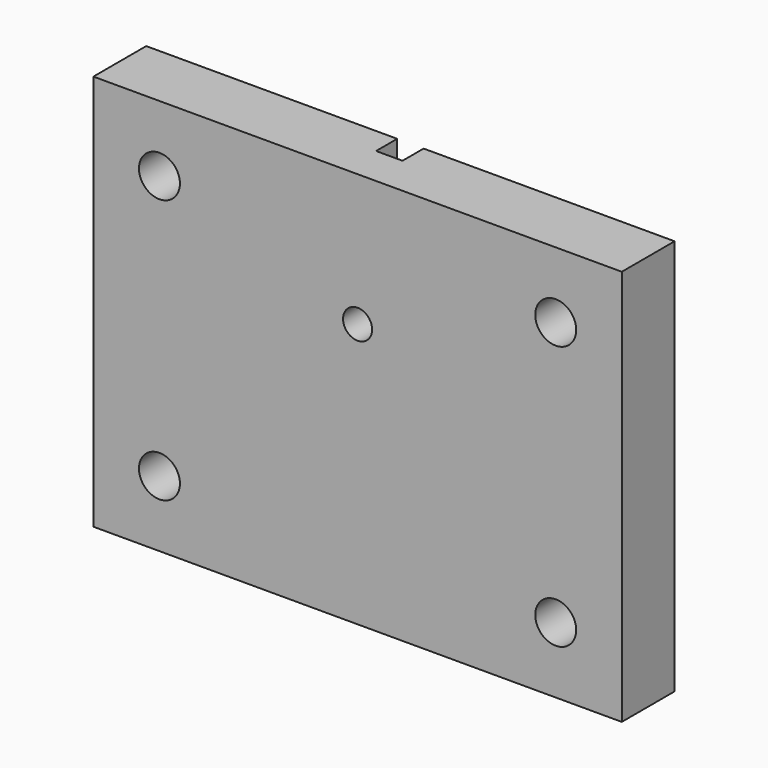
from build123d import *

# Parameters (mm, degrees)
F0_R     = 1.55
F0_R_2   = 1.1
F1_DEPTH = 5
F2_DEPTH = 2


with BuildPart() as f1:
    # F0 (on Front) → F1 (new body)
    with BuildSketch(Plane.XZ):
        with BuildLine():
            Line((-20, -15), (20, -15))
            Line((20, -15), (20, 15))
            Line((20, 15), (1, 15))
            Line((1, 15), (1, 7.4))
            ThreePointArc((1, 7.4), (0, 2.4), (-1, 7.4))
            Line((-1, 7.4), (-1, 15))
            Line((-1, 15), (-20, 15))
            Line((-20, 15), (-20, -15))
        make_face()
        with Locations((-15, -10)):
            Circle(F0_R, mode=Mode.SUBTRACT)
        with Locations((15, -10)):
            Circle(F0_R, mode=Mode.SUBTRACT)
        with Locations((-15, 10)):
            Circle(F0_R, mode=Mode.SUBTRACT)
        with Locations((15, 10)):
            Circle(F0_R, mode=Mode.SUBTRACT)
        with BuildLine():
            Line((1, 7.4), (1, 15))
            Line((1, 15), (-1, 15))
            Line((-1, 15), (-1, 7.4))
            ThreePointArc((-1, 7.4), (0, 2.4), (1, 7.4))
        make_face()
        with Locations((0, 5)):
            Circle(F0_R_2, mode=Mode.SUBTRACT)
    extrude(amount=F1_DEPTH)

    # F0 (on Front) → F2 (cut)
    with BuildSketch(Plane.XZ):
        with BuildLine():
            Line((1, 7.4), (1, 15))
            Line((1, 15), (-1, 15))
            Line((-1, 15), (-1, 7.4))
            ThreePointArc((-1, 7.4), (0, 2.4), (1, 7.4))
        make_face()
        with Locations((0, 5)):
            Circle(F0_R_2, mode=Mode.SUBTRACT)
    extrude(amount=F2_DEPTH, mode=Mode.SUBTRACT)


solid = f1.part
